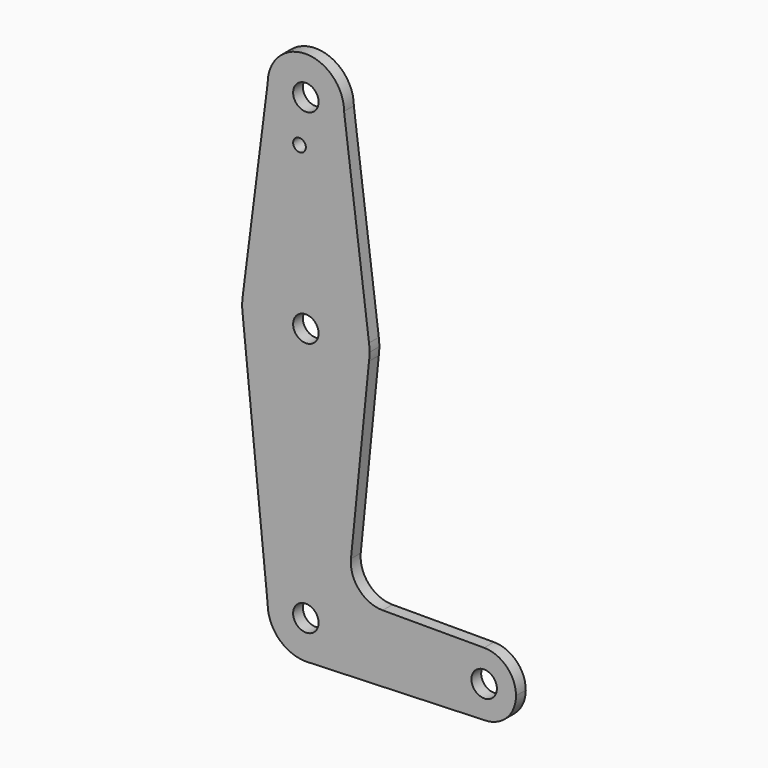
from build123d import *

# Parameters (mm, degrees)
F0_R     = 3.175
F1_DEPTH = 3.048


with BuildPart() as f1:
    # F0 (on Front) → F1 (new body)
    with BuildSketch(Plane.XZ):
        with BuildLine():
            ThreePointArc((44.45, -7.9375), (50.0626600757, -5.6126600757), (52.3875, 0))
            ThreePointArc((52.3875, 0), (50.0626600757, 5.6126600757), (44.45, 7.9375))
            ThreePointArc((44.45, 7.9375), (36.5125, 0), (44.45, -7.9375))
        make_face()
        with Locations((44.45, 0)):
            Circle(F0_R, mode=Mode.SUBTRACT)
        with BuildLine():
            ThreePointArc((44.45, -7.9375), (36.5125, 0), (44.45, 7.9375))
            Line((44.45, 7.9375), (19.1584073366, 7.9375))
            ThreePointArc((19.1584073366, 7.9375), (13.2626212593, 10.5542783431), (11.2479866807, 16.6820079294))
            Line((11.2479866807, 16.6820079294), (15.7474569047, 61.4917106696))
            ThreePointArc((15.7474569047, 61.4917106696), (0, 47.625), (-15.7474569047, 61.4917106696))
            Line((-15.7474569047, 61.4917106696), (-9.525, 0))
            ThreePointArc((-9.525, 0), (0, 9.525), (9.525, 0))
            ThreePointArc((9.525, 0), (6.9712901065, -6.4905114784), (0.6794904459, -9.5007324841))
            Line((0.6794904459, -9.5007324841), (44.45, -7.9375))
        make_face()
        with BuildLine():
            Line((0, -9.525), (0.6794904459, -9.5007324841))
            ThreePointArc((0.6794904459, -9.5007324841), (6.9712901065, -6.4905114784), (9.525, 0))
            ThreePointArc((9.525, 0), (0, 9.525), (-9.525, 0))
            ThreePointArc((-9.525, 0), (-6.7351920908, -6.7351920908), (0, -9.525))
        make_face()
        Circle(F0_R, mode=Mode.SUBTRACT)
        with BuildLine():
            ThreePointArc((0, -9.525), (0.3399618281, -9.5189311877), (0.6794904459, -9.5007324841))
            Line((0.6794904459, -9.5007324841), (0, -9.525))
        make_face()
        with BuildLine():
            ThreePointArc((-15.7474569047, 61.4917106696), (0, 47.625), (15.7474569047, 61.4917106696))
            ThreePointArc((15.7474569047, 61.4917106696), (15.8430821396, 62.4938323604), (15.875, 63.5))
            ThreePointArc((15.875, 63.5), (15.8430821396, 64.5061676396), (15.7474569047, 65.5082893304))
            ThreePointArc((15.7474569047, 65.5082893304), (0, 79.375), (-15.7474569047, 65.5082893304))
            ThreePointArc((-15.7474569047, 65.5082893304), (-15.875, 63.5), (-15.7474569047, 61.4917106696))
        make_face()
        with Locations((0, 63.5)):
            Circle(F0_R, mode=Mode.SUBTRACT)
        with BuildLine():
            Line((-9.525, 114.3), (-15.7474569047, 65.5082893304))
            ThreePointArc((-15.7474569047, 65.5082893304), (0, 79.375), (15.7474569047, 65.5082893304))
            Line((15.7474569047, 65.5082893304), (9.525, 114.3))
            ThreePointArc((9.525, 114.3), (6.2355761379, 107.0997767237), (-1.3607144837, 104.8726949188))
            ThreePointArc((-1.3607144837, 104.8726949188), (-7.2002232763, 108.0644238621), (-9.525, 114.3))
        make_face()
        with BuildLine():
            ThreePointArc((0, 103.3014773719), (-2.7875371363, 102.2622145941), (-1.3607144837, 104.8726949188))
            ThreePointArc((-1.3607144837, 104.8726949188), (-0.3874628637, 104.3407401498), (0, 103.3014773719))
        make_face(mode=Mode.SUBTRACT)
        with BuildLine():
            ThreePointArc((9.525, 114.3), (0, 123.825), (-9.525, 114.3))
            ThreePointArc((-9.525, 114.3), (-7.2002232763, 108.0644238621), (-1.3607144837, 104.8726949188))
            ThreePointArc((-1.3607144837, 104.8726949188), (6.2355761379, 107.0997767237), (9.525, 114.3))
        make_face()
        with Locations((0, 114.3)):
            Circle(F0_R, mode=Mode.SUBTRACT)
    extrude(amount=F1_DEPTH)


solid = f1.part
